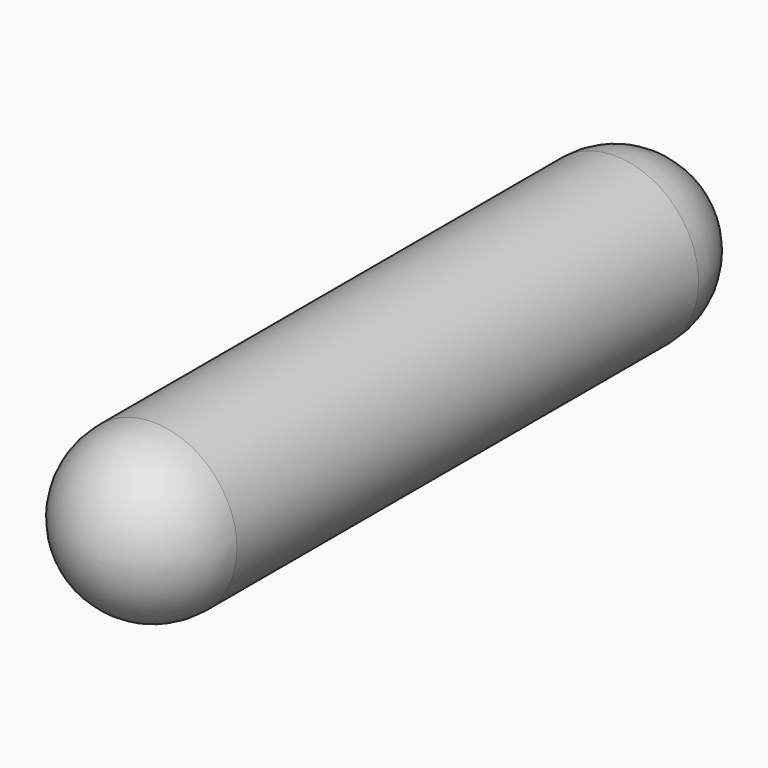
from build123d import *

# Parameters (mm, degrees)
F0_R     = 11.43
F1_DEPTH = 50.8
F2_R     = 11.43
F4_D     = 4.318
F4_DEPTH = 11.431


with BuildPart() as f1:
    # F0 (on Front) → F1 (new body, symmetric)
    with BuildSketch(Plane.XZ):
        Circle(F0_R)
    extrude(amount=F1_DEPTH, both=True)

    # F2
    f2_edges = [f1.edges().sort_by_distance(p)[0] for p in [
        (-11.43, 50.8, 0),
        (-11.43, -50.8, 0),
    ]]
    fillet(f2_edges, radius=F2_R)

    # F4 (through all, one way)
    with BuildSketch(Plane.YZ):
        with Locations((0, 0)):
            Circle(F4_D / 2)
    extrude(amount=-F4_DEPTH, mode=Mode.SUBTRACT)


solid = f1.part
